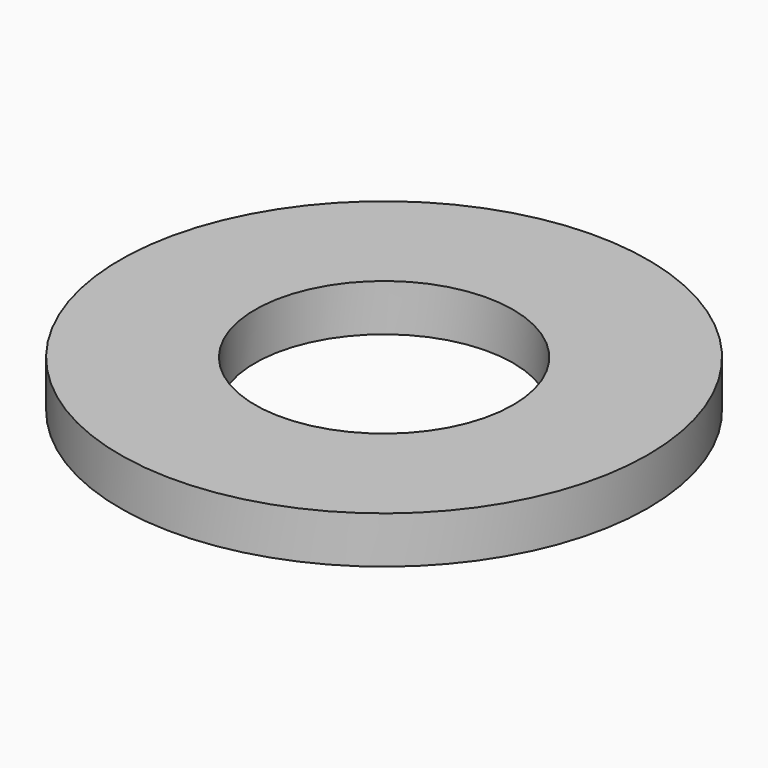
from build123d import *

# Parameters (mm, degrees)
SKETCH_R   = 4.5
SKETCH_R_2 = 2.2
PAD_DEPTH  = 0.4


with BuildPart() as part:
    # Sketch → Pad (new body, symmetric)
    with BuildSketch(Plane.XY):
        Circle(SKETCH_R)
        Circle(SKETCH_R_2, mode=Mode.SUBTRACT)
    extrude(amount=PAD_DEPTH, both=True)


solid = part.part
